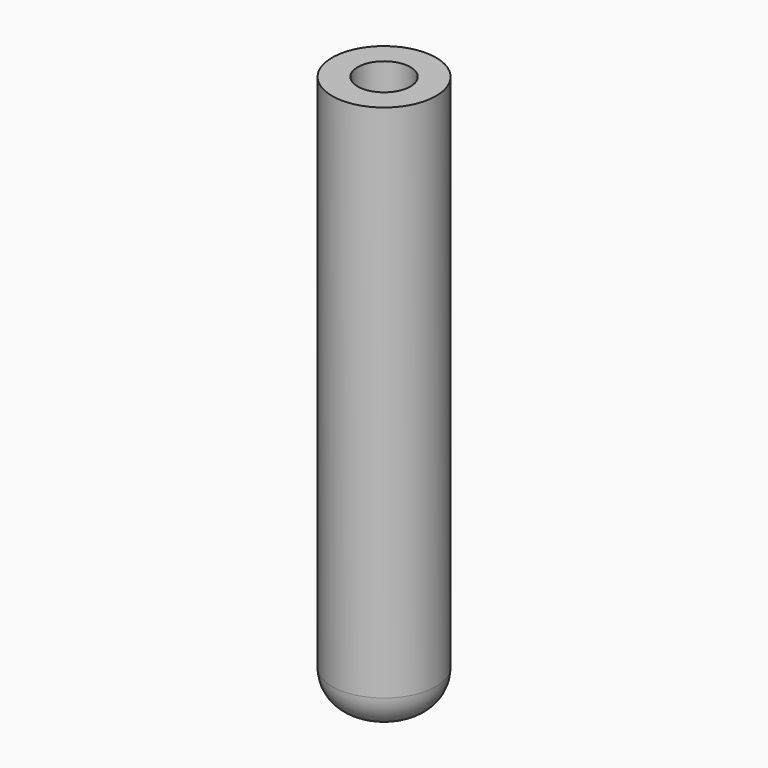
from build123d import *

# Parameters (mm, degrees)
F0_R     = 7.5
F1_DEPTH = 80
F2_R     = 3.8
F3_DEPTH = 76
F4_R     = 5


with BuildPart() as f1:
    # F0 (on Top) → F1 (new body)
    with BuildSketch(Plane.XY):
        Circle(F0_R)
    extrude(amount=F1_DEPTH)

    # F2 (on face) → F3 (cut)
    with BuildSketch(Plane.XY.offset(80)):
        Circle(F2_R)
    extrude(amount=-F3_DEPTH, mode=Mode.SUBTRACT)

    # F4
    f4_edges = [f1.edges().sort_by_distance(p)[0] for p in [
        (-7.5, 0, 0),
    ]]
    fillet(f4_edges, radius=F4_R)


solid = f1.part
